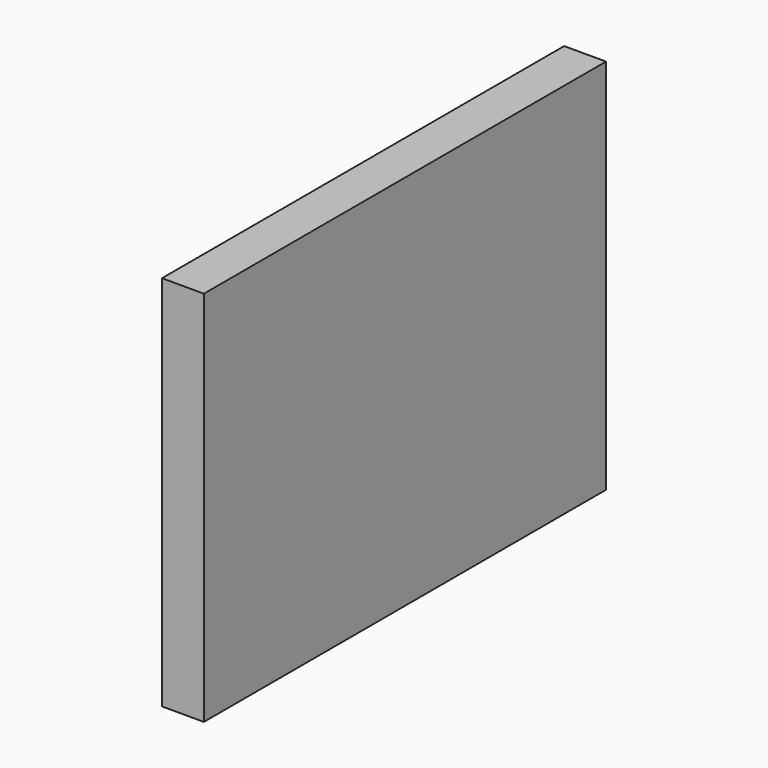
from build123d import *

# Parameters (mm, degrees)
F0_W     = 304.8
F0_H     = 228.6
F1_DEPTH = 25.4
F3_DEPTH = 19.05
F5_D     = 3.175
F6_R     = 3.175


with BuildPart() as f1:
    # F0 (on Right) → F1 (new body)
    with BuildSketch(Plane.YZ):
        Rectangle(F0_W, F0_H)
    extrude(amount=F1_DEPTH)

    # F2 (on Front) → F3 (join, symmetric)
    with BuildSketch(Plane.XZ):
        Polygon((0, -19.05), (0, 19.05), (-3.175, 19.05), (-6.35, 19.05), (-6.35, -19.05), (-3.175, -19.05), align=None)
    extrude(amount=F3_DEPTH, both=True)

    # F5 (through all)
    with Locations(Plane.XY.offset(19.05)):
        with Locations((-3.175, -15.875)):
            Hole(F5_D / 2)

    # F6
    f6_edges = [f1.edges().sort_by_distance(p)[0] for p in [
        (-6.35, -19.05, 0),
    ]]
    fillet(f6_edges, radius=F6_R)


solid = f1.part
